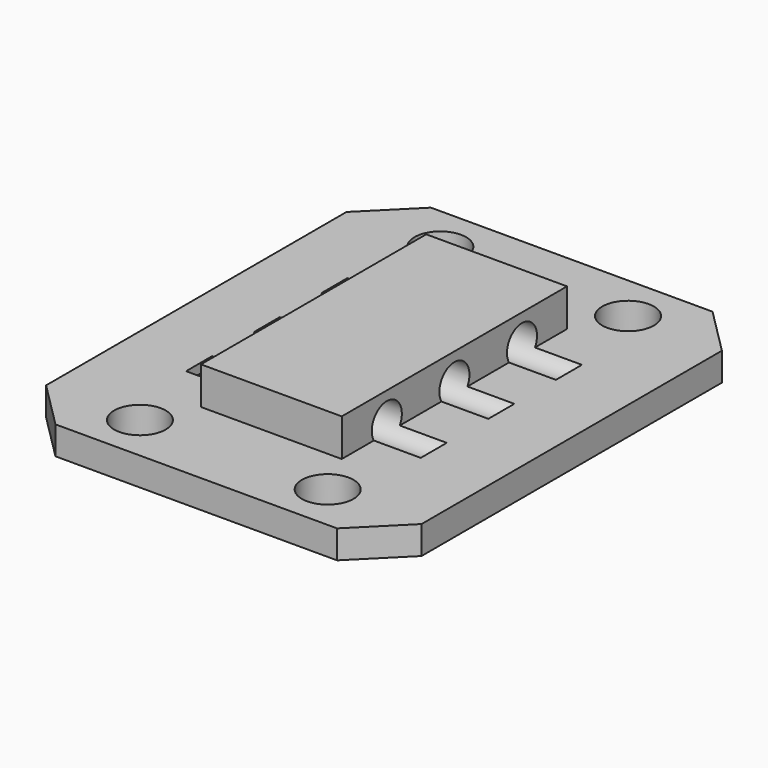
from build123d import *

# Parameters (mm, degrees)
F0_W     = 40
F0_H     = 50
F0_R     = 2.75
F1_DEPTH = 3
F2_SIZE  = 5
F3_W     = 15
F3_H     = 30
F4_DEPTH = 4
F6_DEPTH = 12.5


with BuildPart() as f1:
    # F0 (on Top) → F1 (new body)
    with BuildSketch(Plane.XY):
        Rectangle(F0_W, F0_H)
        with Locations((-10, -20)):
            Circle(F0_R, mode=Mode.SUBTRACT)
        with Locations((10, -20)):
            Circle(F0_R, mode=Mode.SUBTRACT)
        with Locations((-10, 20)):
            Circle(F0_R, mode=Mode.SUBTRACT)
        with Locations((10, 20)):
            Circle(F0_R, mode=Mode.SUBTRACT)
    extrude(amount=F1_DEPTH)

    # F2
    f2_edges = [f1.edges().sort_by_distance(p)[0] for p in [
        (-20, 25, 1.5),
        (20, 25, 1.5),
        (-20, -25, 1.5),
        (20, -25, 1.5),
    ]]
    chamfer(f2_edges, length=F2_SIZE)

    # F3 (on face) → F4 (join)
    with BuildSketch(Plane.XY.offset(3)):
        Rectangle(F3_W, F3_H)
    extrude(amount=F4_DEPTH)

    # F5 (on Right) → F6 (cut, symmetric)
    with BuildSketch(Plane.YZ):
        with BuildLine():
            ThreePointArc((7, 4), (9, 2), (11, 4))
            Line((11, 4), (7, 4))
        make_face()
        with BuildLine():
            Line((7, 4), (11, 4))
            ThreePointArc((11, 4), (9, 6), (7, 4))
        make_face()
        with BuildLine():
            ThreePointArc((-11, 4), (-9, 2), (-7, 4))
            Line((-7, 4), (-11, 4))
        make_face()
        with BuildLine():
            Line((-11, 4), (-7, 4))
            ThreePointArc((-7, 4), (-9, 6), (-11, 4))
        make_face()
        with BuildLine():
            ThreePointArc((-2, 4), (0, 2), (2, 4))
            Line((2, 4), (-2, 4))
        make_face()
        with BuildLine():
            Line((-2, 4), (2, 4))
            ThreePointArc((2, 4), (0, 6), (-2, 4))
        make_face()
    extrude(amount=F6_DEPTH, both=True, mode=Mode.SUBTRACT)


solid = f1.part
